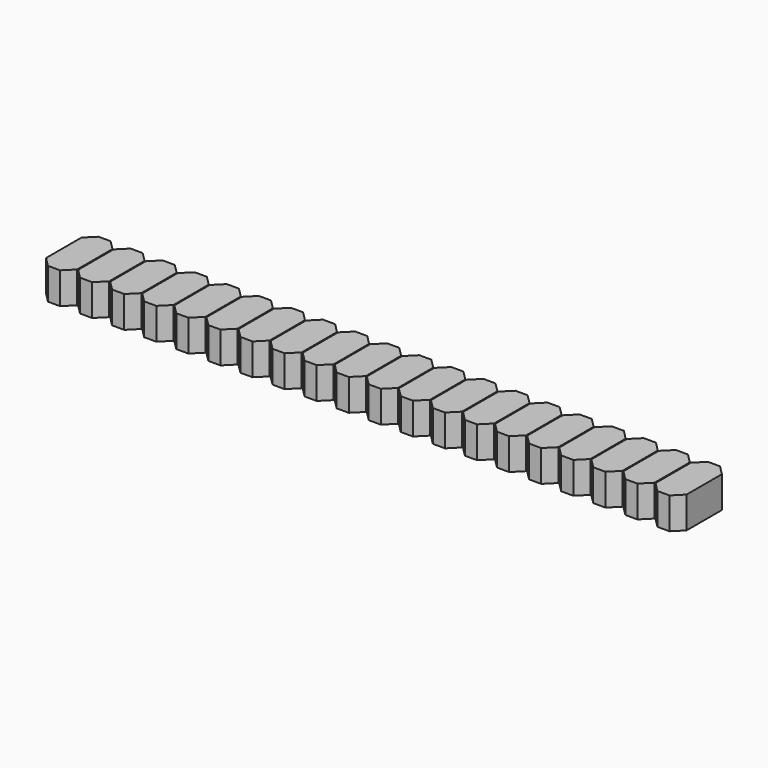
from build123d import *

# Parameters (mm, degrees)
BOX022_W         = 48.26
BOX022_H         = 3.2
BOX022_DEPTH     = 2.3
BOX021_W         = 2.46
BOX021_H         = 5
BOX021_DEPTH     = 2.5
CHAMFER005_SIZE  = 0.75
ARRAY008_X_COUNT = 20
ARRAY008_X_PITCH = 2.54


with BuildPart() as cube006:
    # Box022 → Box022 (new body)
    with BuildSketch(Plane(origin=(0, -0.33, 0.1), x_dir=(1, 0, 0), z_dir=(0, 0, 1))):
        with Locations((24.13, 1.6)):
            Rectangle(BOX022_W, BOX022_H)
    extrude(amount=BOX022_DEPTH)


with BuildPart() as body006:
    # Box021 → Box021 (new body)
    with BuildSketch(Plane(origin=(-1.23, -1.23, 0), x_dir=(1, 0, 0), z_dir=(0, 0, 1))):
        with Locations((1.23, 2.5)):
            Rectangle(BOX021_W, BOX021_H)
    extrude(amount=BOX021_DEPTH)

    # Chamfer005
    chamfer005_edges = [body006.edges().sort_by_distance(p)[0] for p in [
        (-1.23, -1.23, 1.25),
        (-1.23, 3.77, 1.25),
        (1.23, -1.23, 1.25),
        (1.23, 3.77, 1.25),
    ]]
    chamfer(chamfer005_edges, length=CHAMFER005_SIZE)

    # Array008 X: Body006 ×20


with BuildPart() as body006_1:
    add(body006.part)
    with Locations(*[(i * ARRAY008_X_PITCH, 0, 0) for i in range(1, ARRAY008_X_COUNT)]):
        add(body006.part)

    # Fusion020: union Cube006
    add(cube006.part)


solid = body006_1.part
